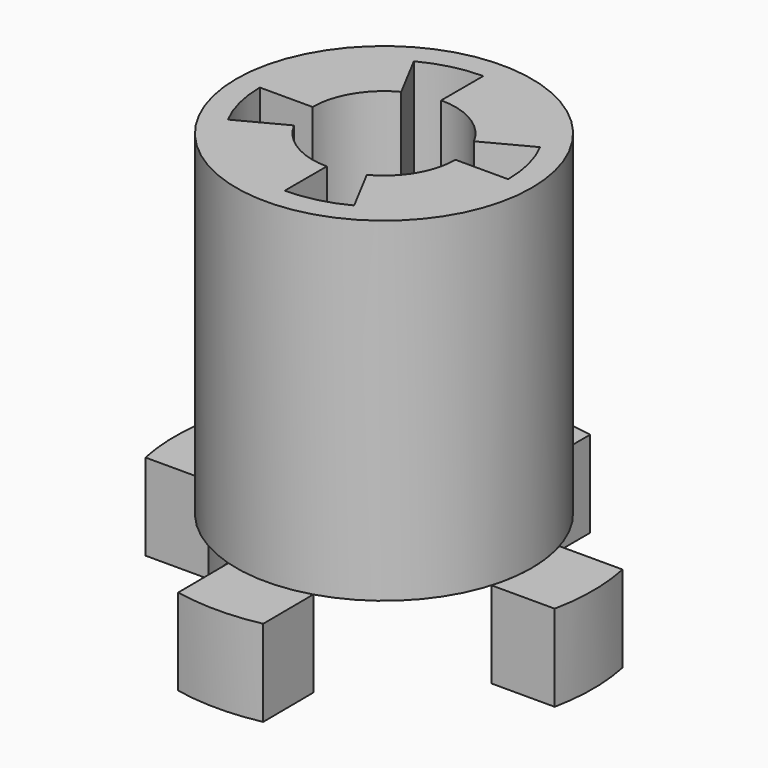
from build123d import *

# Parameters (mm, degrees)
F0_R     = 13.3
F0_R_2   = 9.4
F1_DEPTH = 5.5
F2_R     = 9.4
F3_DEPTH = 21.3
F6_DEPTH = 25
F8_DEPTH = 25


with BuildPart() as f1:
    # F0 (on Top) → F1 (new body)
    with BuildSketch(Plane.XY):
        Circle(F0_R)
        Circle(F0_R_2, mode=Mode.SUBTRACT)
    extrude(amount=-F1_DEPTH)

    # F7 (on Top) → F8 (cut)
    with BuildSketch(Plane.XY):
        with BuildLine():
            Line((13.0230564769, -2.7), (9.0038880491, -2.7))
            ThreePointArc((9.0038880491, -2.7), (6.646845526, -6.6467619601), (2.7001131997, -9.003854103))
            Line((2.7001131997, -9.003854103), (2.7261277271, -13.0176122087))
            ThreePointArc((2.7261277271, -13.0176122087), (9.4139514124, -9.3950794997), (13.0230564769, -2.7))
        make_face()
        with BuildLine():
            ThreePointArc((2.7, 9.0038880491), (6.6468037432, 6.6468037432), (9.0038880491, 2.7))
            Line((9.0038880491, 2.7), (13.0230564769, 2.7))
            ThreePointArc((13.0230564769, 2.7), (9.4045201898, 9.4045201898), (2.7, 13.0230564769))
            Line((2.7, 13.0230564769), (2.7, 9.0038880491))
        make_face()
        with BuildLine():
            ThreePointArc((-9.0038880491, 2.7), (-6.6468037432, 6.6468037432), (-2.7, 9.0038880491))
            Line((-2.7, 9.0038880491), (-2.7, 13.0230564769))
            ThreePointArc((-2.7, 13.0230564769), (-9.4045201898, 9.4045201898), (-13.0230564769, 2.7))
            Line((-13.0230564769, 2.7), (-9.0038880491, 2.7))
        make_face()
        with BuildLine():
            Line((-2.6739155322, -13.0284371943), (-2.7, -9.0038880491))
            ThreePointArc((-2.7, -9.0038880491), (-6.6468037432, -6.6468037432), (-9.0038880491, -2.7))
            Line((-9.0038880491, -2.7), (-13.0230564769, -2.7))
            ThreePointArc((-13.0230564769, -2.7), (-9.3950990566, -9.4139318946), (-2.6739155322, -13.0284371943))
        make_face()
    extrude(amount=-F8_DEPTH, mode=Mode.SUBTRACT)


with BuildPart() as f3:
    # F2 (on Top) → F3 (new body)
    with BuildSketch(Plane.XY):
        Circle(F2_R)
    extrude(amount=F3_DEPTH)

    # F5 (on face) → F6 (cut)
    with BuildSketch(Plane.XY.offset(21.3)):
        with BuildLine():
            Line((4.55, 0), (7.9, 0))
            ThreePointArc((7.9, 0), (7.6681158051, 1.9), (6.9860759494, 3.688460767))
            Line((6.9860759494, 3.688460767), (4.0236260215, 2.1243666443))
            ThreePointArc((4.0236260215, 2.1243666443), (2.3491095939, 3.8966888657), (0, 4.55))
            Line((0, 4.55), (0, 7.9))
            ThreePointArc((0, 7.9), (-1.9, 7.6681158051), (-3.688460767, 6.9860759494))
            Line((-3.688460767, 6.9860759494), (-2.1243666443, 4.0236260215))
            ThreePointArc((-2.1243666443, 4.0236260215), (-3.8966888657, 2.3491095939), (-4.55, 0))
            Line((-4.55, 0), (-7.9, 0))
            ThreePointArc((-7.9, 0), (-7.6681158051, -1.9), (-6.9860759494, -3.688460767))
            Line((-6.9860759494, -3.688460767), (-4.0236260215, -2.1243666443))
            ThreePointArc((-4.0236260215, -2.1243666443), (-2.3491095939, -3.8966888657), (0, -4.55))
            Line((0, -4.55), (0, -7.9))
            ThreePointArc((0, -7.9), (1.9, -7.6681158051), (3.688460767, -6.9860759494))
            Line((3.688460767, -6.9860759494), (2.1243666443, -4.0236260215))
            ThreePointArc((2.1243666443, -4.0236260215), (3.8966888657, -2.3491095939), (4.55, 0))
        make_face()
    extrude(amount=-F6_DEPTH, mode=Mode.SUBTRACT)


solid = Compound([f1.part, f3.part])
